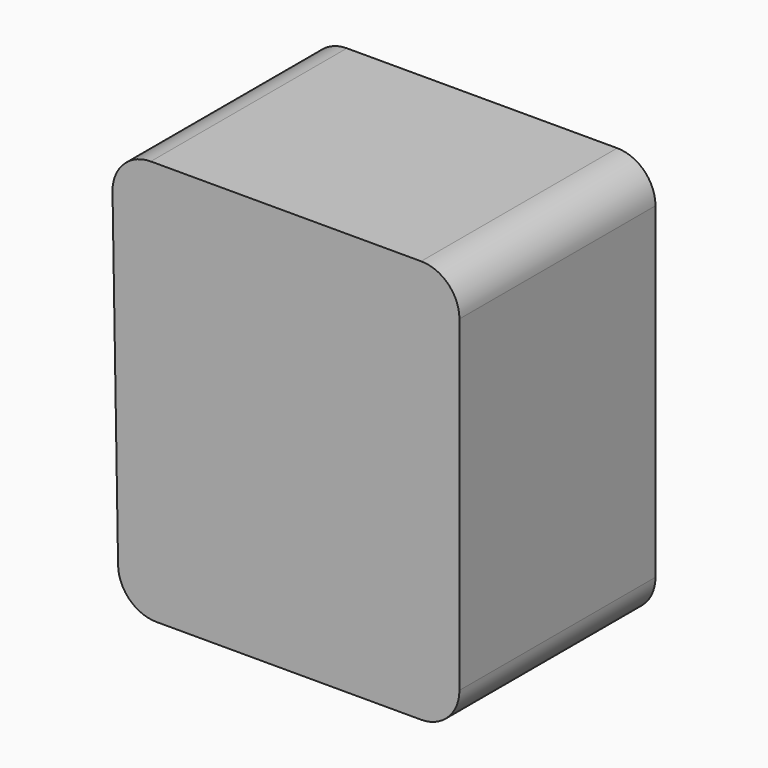
from build123d import *

# Parameters (mm, degrees)
F1_DEPTH = 40.64


with BuildPart() as f1:
    # F0 (on Front) → F1 (new body)
    with BuildSketch(Plane.XZ):
        with BuildLine():
            Line((25.597121, 32.231517), (-19.231565, 32.231517))
            ThreePointArc((-19.231565, 32.231517), (-23.759686, 30.333327), (-25.580648, 25.773601))
            Line((-25.580648, 25.773601), (-24.658929, -28.454197))
            ThreePointArc((-24.658929, -28.454197), (-22.761657, -32.874402), (-18.309846, -34.696281))
            Line((-18.309846, -34.696281), (25.597121, -34.696281))
            ThreePointArc((25.597121, -34.696281), (30.087249, -32.836409), (31.947121, -28.346281))
            Line((31.947121, -28.346281), (31.947121, 25.881517))
            ThreePointArc((31.947121, 25.881517), (30.087249, 30.371645), (25.597121, 32.231517))
        make_face()
        with BuildLine():
            Line((25.597121, 32.231517), (-19.231565, 32.231517))
            ThreePointArc((-19.231565, 32.231517), (-23.759686, 30.333327), (-25.580648, 25.773601))
            Line((-25.580648, 25.773601), (-24.658929, -28.454197))
            ThreePointArc((-24.658929, -28.454197), (-22.761657, -32.874402), (-18.309846, -34.696281))
            Line((-18.309846, -34.696281), (25.597121, -34.696281))
            ThreePointArc((25.597121, -34.696281), (30.087249, -32.836409), (31.947121, -28.346281))
            Line((31.947121, -28.346281), (31.947121, 25.881517))
            ThreePointArc((31.947121, 25.881517), (30.087249, 30.371645), (25.597121, 32.231517))
        make_face()
    extrude(amount=F1_DEPTH)


solid = f1.part
